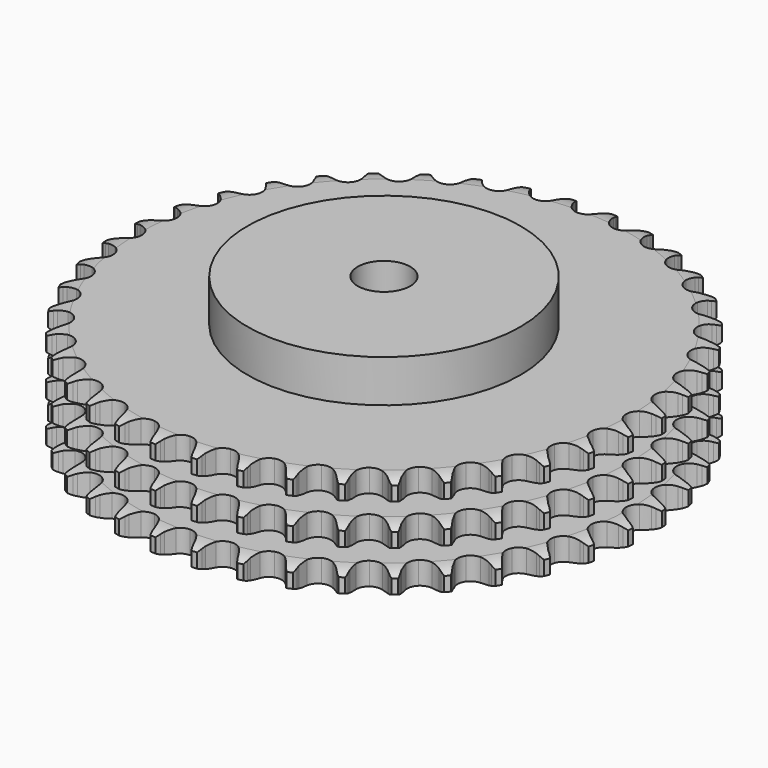
from build123d import *

# Parameters (mm, degrees)
PAD_DEPTH         = 49.8
SKETCH001_R       = 65
PAD001_DEPTH      = 70
SKETCH002_R       = 12.5
POCKET_DEPTH      = 0.001
POCKET_DEPTH_BACK = 70.001


with BuildPart() as part:
    # Sprocket → Pad (new body)
    with BuildSketch(Plane.XY):
        with BuildLine():
            ThreePointArc((-10.000443, 127.067676), (-8.616293, 125.369452), (-7.644652, 123.405845))
            Line((-7.644652, 123.405845), (-7.056217, 121.780312))
            ThreePointArc((-7.056217, 121.780312), (-6.126662, 119.69739), (-4.906159, 117.770471))
            ThreePointArc((-4.906159, 117.770471), (-2.747075, 115.950742), (0, 115.297563))
            ThreePointArc((0, 115.297563), (2.747075, 115.950742), (4.906159, 117.770471))
            ThreePointArc((4.906159, 117.770471), (6.126662, 119.69739), (7.056217, 121.780312))
            Line((7.056217, 121.780312), (7.644652, 123.405845))
            ThreePointArc((7.644652, 123.405845), (8.616293, 125.369452), (10.000443, 127.067676))
            ThreePointArc((10.000443, 127.067676), (11.101891, 125.173831), (11.754394, 123.082401))
            Line((11.754394, 123.082401), (12.081294, 121.38483))
            ThreePointArc((12.081294, 121.38483), (12.673565, 119.182137), (13.577604, 117.088014))
            ThreePointArc((13.577604, 117.088014), (15.425439, 114.952933), (18.036513, 113.878059))
            ThreePointArc((18.036513, 113.878059), (20.851946, 114.093459), (23.269117, 115.553029))
            Line((23.269117, 115.553029), (26.019982, 119.177159))
            ThreePointArc((26.019982, 119.177159), (26.416953, 119.945358), (26.855461, 120.690627))
            ThreePointArc((26.855461, 120.690627), (28.122315, 122.478061), (29.755085, 123.938849))
            ThreePointArc((29.755085, 123.938849), (30.54671, 121.896015), (30.864007, 119.728261))
            Line((30.864007, 119.728261), (30.921325, 118.000451))
            ThreePointArc((30.921325, 118.000451), (31.161726, 115.732225), (31.727042, 113.522461))
            ThreePointArc((31.727042, 113.522461), (33.218127, 111.124602), (35.628906, 109.654499))
            ThreePointArc((35.628906, 109.654499), (38.443373, 109.426816), (41.059112, 110.490288))
            Line((41.059112, 110.490288), (44.343048, 113.639468))
            ThreePointArc((44.343048, 113.639468), (44.855304, 114.33611), (45.404999, 115.003606))
            ThreePointArc((45.404999, 115.003606), (46.935873, 116.570853), (48.777058, 117.758235))
            ThreePointArc((48.777058, 117.758235), (49.239367, 115.616715), (49.213646, 113.426013))
            Line((49.213646, 113.426013), (48.999969, 111.710508))
            ThreePointArc((48.999969, 111.710508), (48.882582, 109.432601), (49.095255, 107.161608))
            ThreePointArc((49.095255, 107.161608), (50.192874, 104.560014), (52.343998, 102.730881))
            ThreePointArc((52.343998, 102.730881), (55.088197, 102.065722), (57.838095, 102.706909))
            Line((57.838095, 102.706909), (61.574241, 105.303597))
            ThreePointArc((61.574241, 105.303597), (62.189169, 105.911527), (62.836516, 106.484814))
            ThreePointArc((62.836516, 106.484814), (64.593713, 107.793285), (66.597978, 108.678023))
            ThreePointArc((66.597978, 108.678023), (66.719588, 106.490547), (66.351482, 104.33084))
            Line((66.351482, 104.33084), (65.872072, 102.669883))
            ThreePointArc((65.872072, 102.669883), (65.399787, 100.438384), (65.25458, 98.162081))
            ThreePointArc((65.25458, 98.162081), (65.931706, 95.420811), (67.770207, 93.277688))
            ThreePointArc((67.770207, 93.277688), (70.376566, 92.191431), (73.192913, 92.394545))
            Line((73.192913, 92.394545), (77.289271, 94.374802))
            ThreePointArc((77.289271, 94.374802), (77.99173, 94.879051), (78.720789, 95.344012))
            ThreePointArc((78.720789, 95.344012), (80.661042, 96.361487), (82.779035, 96.921797))
            ThreePointArc((82.779035, 96.921797), (82.556951, 94.742229), (81.855525, 92.666695))
            Line((81.855525, 92.666695), (81.122186, 91.101184))
            ThreePointArc((81.122186, 91.101184), (80.306632, 88.97104), (79.80712, 86.745478))
            ThreePointArc((79.80712, 86.745478), (80.047081, 83.932031), (81.527689, 81.527689))
            ThreePointArc((81.527689, 81.527689), (83.932031, 80.047081), (86.745478, 79.80712))
            Line((86.745478, 79.80712), (91.101184, 81.122186))
            ThreePointArc((91.101184, 81.122186), (91.873876, 81.510338), (92.666695, 81.855525))
            ThreePointArc((92.666695, 81.855525), (94.742229, 82.556951), (96.921797, 82.779035))
            ThreePointArc((96.921797, 82.779035), (96.361487, 80.661042), (95.344012, 78.720789))
            Line((95.344012, 78.720789), (94.374802, 77.289271))
            ThreePointArc((94.374802, 77.289271), (93.236061, 75.312934), (92.394545, 73.192913))
            ThreePointArc((92.394545, 73.192913), (92.191431, 70.376566), (93.277688, 67.770207))
            ThreePointArc((93.277688, 67.770207), (95.420811, 65.931706), (98.162081, 65.25458))
            Line((98.162081, 65.25458), (102.669883, 65.872072))
            ThreePointArc((102.669883, 65.872072), (103.493782, 66.13457), (104.33084, 66.351482))
            ThreePointArc((104.33084, 66.351482), (106.490547, 66.719588), (108.678023, 66.597978))
            ThreePointArc((108.678023, 66.597978), (107.793285, 64.593713), (106.484814, 62.836516))
            Line((106.484814, 62.836516), (105.303597, 61.574241))
            ThreePointArc((105.303597, 61.574241), (103.869709, 59.800373), (102.706909, 57.838095))
            ThreePointArc((102.706909, 57.838095), (102.065722, 55.088197), (102.730881, 52.343998))
            ThreePointArc((102.730881, 52.343998), (104.560014, 50.192874), (107.161608, 49.095255))
            Line((107.161608, 49.095255), (111.710508, 48.999969))
            ThreePointArc((111.710508, 48.999969), (112.565328, 49.130349), (113.426013, 49.213646))
            ThreePointArc((113.426013, 49.213646), (115.616715, 49.239367), (117.758235, 48.777058))
            ThreePointArc((117.758235, 48.777058), (116.570853, 46.935873), (115.003606, 45.404999))
            Line((115.003606, 45.404999), (113.639468, 44.343048))
            ThreePointArc((113.639468, 44.343048), (111.94574, 42.815329), (110.490288, 41.059112))
            ThreePointArc((110.490288, 41.059112), (109.426816, 38.443373), (109.654499, 35.628906))
            ThreePointArc((109.654499, 35.628906), (111.124602, 33.218127), (113.522461, 31.727042))
            Line((113.522461, 31.727042), (118.000451, 30.921325))
            ThreePointArc((118.000451, 30.921325), (118.865142, 30.916376), (119.728261, 30.864007))
            ThreePointArc((119.728261, 30.864007), (121.896015, 30.54671), (123.938849, 29.755085))
            ThreePointArc((123.938849, 29.755085), (122.478061, 28.122315), (120.690627, 26.855461))
            Line((120.690627, 26.855461), (119.177159, 26.019982))
            ThreePointArc((119.177159, 26.019982), (117.265295, 24.776029), (115.553029, 23.269117))
            ThreePointArc((115.553029, 23.269117), (114.093459, 20.851946), (113.878059, 18.036513))
            ThreePointArc((113.878059, 18.036513), (114.952933, 15.425439), (117.088014, 13.577604))
            Line((117.088014, 13.577604), (121.38483, 12.081294))
            ThreePointArc((121.38483, 12.081294), (122.238102, 11.941139), (123.082401, 11.754394))
            ThreePointArc((123.082401, 11.754394), (125.173831, 11.101891), (127.067676, 10.000443))
            ThreePointArc((127.067676, 10.000443), (125.369452, 8.616293), (123.405845, 7.644652))
            Line((123.405845, 7.644652), (121.780312, 7.056217))
            ThreePointArc((121.780312, 7.056217), (119.69739, 6.126662), (117.770471, 4.906159))
            ThreePointArc((117.770471, 4.906159), (115.950742, 2.747075), (115.297563, 0))
            ThreePointArc((115.297563, 0), (115.950742, -2.747075), (117.770471, -4.906159))
            Line((117.770471, -4.906159), (121.780312, -7.056217))
            ThreePointArc((121.780312, -7.056217), (122.601154, -7.328128), (123.405845, -7.644652))
            ThreePointArc((123.405845, -7.644652), (125.369452, -8.616293), (127.067676, -10.000443))
            ThreePointArc((127.067676, -10.000443), (125.173831, -11.101891), (123.082401, -11.754394))
            Line((123.082401, -11.754394), (121.38483, -12.081294))
            ThreePointArc((121.38483, -12.081294), (119.182137, -12.673565), (117.088014, -13.577604))
            ThreePointArc((117.088014, -13.577604), (114.952933, -15.425439), (113.878059, -18.036513))
            ThreePointArc((113.878059, -18.036513), (114.093459, -20.851946), (115.553029, -23.269117))
            Line((115.553029, -23.269117), (119.177159, -26.019982))
            ThreePointArc((119.177159, -26.019982), (119.945358, -26.416953), (120.690627, -26.855461))
            ThreePointArc((120.690627, -26.855461), (122.478061, -28.122315), (123.938849, -29.755085))
            ThreePointArc((123.938849, -29.755085), (121.896015, -30.54671), (119.728261, -30.864007))
            Line((119.728261, -30.864007), (118.000451, -30.921325))
            ThreePointArc((118.000451, -30.921325), (115.732225, -31.161726), (113.522461, -31.727042))
            ThreePointArc((113.522461, -31.727042), (111.124602, -33.218127), (109.654499, -35.628906))
            ThreePointArc((109.654499, -35.628906), (109.426816, -38.443373), (110.490288, -41.059112))
            Line((110.490288, -41.059112), (113.639468, -44.343048))
            ThreePointArc((113.639468, -44.343048), (114.33611, -44.855304), (115.003606, -45.404999))
            ThreePointArc((115.003606, -45.404999), (116.570853, -46.935873), (117.758235, -48.777058))
            ThreePointArc((117.758235, -48.777058), (115.616715, -49.239367), (113.426013, -49.213646))
            Line((113.426013, -49.213646), (111.710508, -48.999969))
            ThreePointArc((111.710508, -48.999969), (109.432601, -48.882582), (107.161608, -49.095255))
            ThreePointArc((107.161608, -49.095255), (104.560014, -50.192874), (102.730881, -52.343998))
            ThreePointArc((102.730881, -52.343998), (102.065722, -55.088197), (102.706909, -57.838095))
            Line((102.706909, -57.838095), (105.303597, -61.574241))
            ThreePointArc((105.303597, -61.574241), (105.911527, -62.189169), (106.484814, -62.836516))
            ThreePointArc((106.484814, -62.836516), (107.793285, -64.593713), (108.678023, -66.597978))
            ThreePointArc((108.678023, -66.597978), (106.490547, -66.719588), (104.33084, -66.351482))
            Line((104.33084, -66.351482), (102.669883, -65.872072))
            ThreePointArc((102.669883, -65.872072), (100.438384, -65.399787), (98.162081, -65.25458))
            ThreePointArc((98.162081, -65.25458), (95.420811, -65.931706), (93.277688, -67.770207))
            ThreePointArc((93.277688, -67.770207), (92.191431, -70.376566), (92.394545, -73.192913))
            Line((92.394545, -73.192913), (94.374802, -77.289271))
            ThreePointArc((94.374802, -77.289271), (94.879051, -77.99173), (95.344012, -78.720789))
            ThreePointArc((95.344012, -78.720789), (96.361487, -80.661042), (96.921797, -82.779035))
            ThreePointArc((96.921797, -82.779035), (94.742229, -82.556951), (92.666695, -81.855525))
            Line((92.666695, -81.855525), (91.101184, -81.122186))
            ThreePointArc((91.101184, -81.122186), (88.97104, -80.306632), (86.745478, -79.80712))
            ThreePointArc((86.745478, -79.80712), (83.932031, -80.047081), (81.527689, -81.527689))
            ThreePointArc((81.527689, -81.527689), (80.047081, -83.932031), (79.80712, -86.745478))
            Line((79.80712, -86.745478), (81.122186, -91.101184))
            ThreePointArc((81.122186, -91.101184), (81.510338, -91.873876), (81.855525, -92.666695))
            ThreePointArc((81.855525, -92.666695), (82.556951, -94.742229), (82.779035, -96.921797))
            ThreePointArc((82.779035, -96.921797), (80.661042, -96.361487), (78.720789, -95.344012))
            Line((78.720789, -95.344012), (77.289271, -94.374802))
            ThreePointArc((77.289271, -94.374802), (75.312934, -93.236061), (73.192913, -92.394545))
            ThreePointArc((73.192913, -92.394545), (70.376566, -92.191431), (67.770207, -93.277688))
            ThreePointArc((67.770207, -93.277688), (65.931706, -95.420811), (65.25458, -98.162081))
            Line((65.25458, -98.162081), (65.872072, -102.669883))
            ThreePointArc((65.872072, -102.669883), (66.13457, -103.493782), (66.351482, -104.33084))
            ThreePointArc((66.351482, -104.33084), (66.719588, -106.490547), (66.597978, -108.678023))
            ThreePointArc((66.597978, -108.678023), (64.593713, -107.793285), (62.836516, -106.484814))
            Line((62.836516, -106.484814), (61.574241, -105.303597))
            ThreePointArc((61.574241, -105.303597), (59.800373, -103.869709), (57.838095, -102.706909))
            ThreePointArc((57.838095, -102.706909), (55.088197, -102.065722), (52.343998, -102.730881))
            ThreePointArc((52.343998, -102.730881), (50.192874, -104.560014), (49.095255, -107.161608))
            Line((49.095255, -107.161608), (48.999969, -111.710508))
            ThreePointArc((48.999969, -111.710508), (49.130349, -112.565328), (49.213646, -113.426013))
            ThreePointArc((49.213646, -113.426013), (49.239367, -115.616715), (48.777058, -117.758235))
            ThreePointArc((48.777058, -117.758235), (46.935873, -116.570853), (45.404999, -115.003606))
            Line((45.404999, -115.003606), (44.343048, -113.639468))
            ThreePointArc((44.343048, -113.639468), (42.815329, -111.94574), (41.059112, -110.490288))
            ThreePointArc((41.059112, -110.490288), (38.443373, -109.426816), (35.628906, -109.654499))
            ThreePointArc((35.628906, -109.654499), (33.218127, -111.124602), (31.727042, -113.522461))
            Line((31.727042, -113.522461), (30.921325, -118.000451))
            ThreePointArc((30.921325, -118.000451), (30.916376, -118.865142), (30.864007, -119.728261))
            ThreePointArc((30.864007, -119.728261), (30.54671, -121.896015), (29.755085, -123.938849))
            ThreePointArc((29.755085, -123.938849), (28.122315, -122.478061), (26.855461, -120.690627))
            Line((26.855461, -120.690627), (26.019982, -119.177159))
            ThreePointArc((26.019982, -119.177159), (24.776029, -117.265295), (23.269117, -115.553029))
            ThreePointArc((23.269117, -115.553029), (20.851946, -114.093459), (18.036513, -113.878059))
            ThreePointArc((18.036513, -113.878059), (15.425439, -114.952933), (13.577604, -117.088014))
            Line((13.577604, -117.088014), (12.081294, -121.38483))
            ThreePointArc((12.081294, -121.38483), (11.941139, -122.238102), (11.754394, -123.082401))
            ThreePointArc((11.754394, -123.082401), (11.101891, -125.173831), (10.000443, -127.067676))
            ThreePointArc((10.000443, -127.067676), (8.616293, -125.369452), (7.644652, -123.405845))
            Line((7.644652, -123.405845), (7.056217, -121.780312))
            ThreePointArc((7.056217, -121.780312), (6.126662, -119.69739), (4.906159, -117.770471))
            ThreePointArc((4.906159, -117.770471), (2.747075, -115.950742), (0, -115.297563))
            ThreePointArc((0, -115.297563), (-2.747075, -115.950742), (-4.906159, -117.770471))
            Line((-4.906159, -117.770471), (-7.056217, -121.780312))
            ThreePointArc((-7.056217, -121.780312), (-7.328128, -122.601154), (-7.644652, -123.405845))
            ThreePointArc((-7.644652, -123.405845), (-8.616293, -125.369452), (-10.000443, -127.067676))
            ThreePointArc((-10.000443, -127.067676), (-11.101891, -125.173831), (-11.754394, -123.082401))
            Line((-11.754394, -123.082401), (-12.081294, -121.38483))
            ThreePointArc((-12.081294, -121.38483), (-12.673565, -119.182137), (-13.577604, -117.088014))
            ThreePointArc((-13.577604, -117.088014), (-15.425439, -114.952933), (-18.036513, -113.878059))
            ThreePointArc((-18.036513, -113.878059), (-20.851946, -114.093459), (-23.269117, -115.553029))
            Line((-23.269117, -115.553029), (-26.019982, -119.177159))
            ThreePointArc((-26.019982, -119.177159), (-26.416953, -119.945358), (-26.855461, -120.690627))
            ThreePointArc((-26.855461, -120.690627), (-28.122315, -122.478061), (-29.755085, -123.938849))
            ThreePointArc((-29.755085, -123.938849), (-30.54671, -121.896015), (-30.864007, -119.728261))
            Line((-30.864007, -119.728261), (-30.921325, -118.000451))
            ThreePointArc((-30.921325, -118.000451), (-31.161726, -115.732225), (-31.727042, -113.522461))
            ThreePointArc((-31.727042, -113.522461), (-33.218127, -111.124602), (-35.628906, -109.654499))
            ThreePointArc((-35.628906, -109.654499), (-38.443373, -109.426816), (-41.059112, -110.490288))
            Line((-41.059112, -110.490288), (-44.343048, -113.639468))
            ThreePointArc((-44.343048, -113.639468), (-44.855304, -114.33611), (-45.404999, -115.003606))
            ThreePointArc((-45.404999, -115.003606), (-46.935873, -116.570853), (-48.777058, -117.758235))
            ThreePointArc((-48.777058, -117.758235), (-49.239367, -115.616715), (-49.213646, -113.426013))
            Line((-49.213646, -113.426013), (-48.999969, -111.710508))
            ThreePointArc((-48.999969, -111.710508), (-48.882582, -109.432601), (-49.095255, -107.161608))
            ThreePointArc((-49.095255, -107.161608), (-50.192874, -104.560014), (-52.343998, -102.730881))
            ThreePointArc((-52.343998, -102.730881), (-55.088197, -102.065722), (-57.838095, -102.706909))
            Line((-57.838095, -102.706909), (-61.574241, -105.303597))
            ThreePointArc((-61.574241, -105.303597), (-62.189169, -105.911527), (-62.836516, -106.484814))
            ThreePointArc((-62.836516, -106.484814), (-64.593713, -107.793285), (-66.597978, -108.678023))
            ThreePointArc((-66.597978, -108.678023), (-66.719588, -106.490547), (-66.351482, -104.33084))
            Line((-66.351482, -104.33084), (-65.872072, -102.669883))
            ThreePointArc((-65.872072, -102.669883), (-65.399787, -100.438384), (-65.25458, -98.162081))
            ThreePointArc((-65.25458, -98.162081), (-65.931706, -95.420811), (-67.770207, -93.277688))
            ThreePointArc((-67.770207, -93.277688), (-70.376566, -92.191431), (-73.192913, -92.394545))
            Line((-73.192913, -92.394545), (-77.289271, -94.374802))
            ThreePointArc((-77.289271, -94.374802), (-77.99173, -94.879051), (-78.720789, -95.344012))
            ThreePointArc((-78.720789, -95.344012), (-80.661042, -96.361487), (-82.779035, -96.921797))
            ThreePointArc((-82.779035, -96.921797), (-82.556951, -94.742229), (-81.855525, -92.666695))
            Line((-81.855525, -92.666695), (-81.122186, -91.101184))
            ThreePointArc((-81.122186, -91.101184), (-80.306632, -88.97104), (-79.80712, -86.745478))
            ThreePointArc((-79.80712, -86.745478), (-80.047081, -83.932031), (-81.527689, -81.527689))
            ThreePointArc((-81.527689, -81.527689), (-83.932031, -80.047081), (-86.745478, -79.80712))
            Line((-86.745478, -79.80712), (-91.101184, -81.122186))
            ThreePointArc((-91.101184, -81.122186), (-91.873876, -81.510338), (-92.666695, -81.855525))
            ThreePointArc((-92.666695, -81.855525), (-94.742229, -82.556951), (-96.921797, -82.779035))
            ThreePointArc((-96.921797, -82.779035), (-96.361487, -80.661042), (-95.344012, -78.720789))
            Line((-95.344012, -78.720789), (-94.374802, -77.289271))
            ThreePointArc((-94.374802, -77.289271), (-93.236061, -75.312934), (-92.394545, -73.192913))
            ThreePointArc((-92.394545, -73.192913), (-92.191431, -70.376566), (-93.277688, -67.770207))
            ThreePointArc((-93.277688, -67.770207), (-95.420811, -65.931706), (-98.162081, -65.25458))
            Line((-98.162081, -65.25458), (-102.669883, -65.872072))
            ThreePointArc((-102.669883, -65.872072), (-103.493782, -66.13457), (-104.33084, -66.351482))
            ThreePointArc((-104.33084, -66.351482), (-106.490547, -66.719588), (-108.678023, -66.597978))
            ThreePointArc((-108.678023, -66.597978), (-107.793285, -64.593713), (-106.484814, -62.836516))
            Line((-106.484814, -62.836516), (-105.303597, -61.574241))
            ThreePointArc((-105.303597, -61.574241), (-103.869709, -59.800373), (-102.706909, -57.838095))
            ThreePointArc((-102.706909, -57.838095), (-102.065722, -55.088197), (-102.730881, -52.343998))
            ThreePointArc((-102.730881, -52.343998), (-104.560014, -50.192874), (-107.161608, -49.095255))
            Line((-107.161608, -49.095255), (-111.710508, -48.999969))
            ThreePointArc((-111.710508, -48.999969), (-112.565328, -49.130349), (-113.426013, -49.213646))
            ThreePointArc((-113.426013, -49.213646), (-115.616715, -49.239367), (-117.758235, -48.777058))
            ThreePointArc((-117.758235, -48.777058), (-116.570853, -46.935873), (-115.003606, -45.404999))
            Line((-115.003606, -45.404999), (-113.639468, -44.343048))
            ThreePointArc((-113.639468, -44.343048), (-111.94574, -42.815329), (-110.490288, -41.059112))
            ThreePointArc((-110.490288, -41.059112), (-109.426816, -38.443373), (-109.654499, -35.628906))
            ThreePointArc((-109.654499, -35.628906), (-111.124602, -33.218127), (-113.522461, -31.727042))
            Line((-113.522461, -31.727042), (-118.000451, -30.921325))
            ThreePointArc((-118.000451, -30.921325), (-118.865142, -30.916376), (-119.728261, -30.864007))
            ThreePointArc((-119.728261, -30.864007), (-121.896015, -30.54671), (-123.938849, -29.755085))
            ThreePointArc((-123.938849, -29.755085), (-122.478061, -28.122315), (-120.690627, -26.855461))
            Line((-120.690627, -26.855461), (-119.177159, -26.019982))
            ThreePointArc((-119.177159, -26.019982), (-117.265295, -24.776029), (-115.553029, -23.269117))
            ThreePointArc((-115.553029, -23.269117), (-114.093459, -20.851946), (-113.878059, -18.036513))
            ThreePointArc((-113.878059, -18.036513), (-114.952933, -15.425439), (-117.088014, -13.577604))
            Line((-117.088014, -13.577604), (-121.38483, -12.081294))
            ThreePointArc((-121.38483, -12.081294), (-122.238102, -11.941139), (-123.082401, -11.754394))
            ThreePointArc((-123.082401, -11.754394), (-125.173831, -11.101891), (-127.067676, -10.000443))
            ThreePointArc((-127.067676, -10.000443), (-125.369452, -8.616293), (-123.405845, -7.644652))
            Line((-123.405845, -7.644652), (-121.780312, -7.056217))
            ThreePointArc((-121.780312, -7.056217), (-119.69739, -6.126662), (-117.770471, -4.906159))
            ThreePointArc((-117.770471, -4.906159), (-115.950742, -2.747075), (-115.297563, 0))
            ThreePointArc((-115.297563, 0), (-115.950742, 2.747075), (-117.770471, 4.906159))
            Line((-117.770471, 4.906159), (-121.780312, 7.056217))
            ThreePointArc((-121.780312, 7.056217), (-122.601154, 7.328128), (-123.405845, 7.644652))
            ThreePointArc((-123.405845, 7.644652), (-125.369452, 8.616293), (-127.067676, 10.000443))
            ThreePointArc((-127.067676, 10.000443), (-125.173831, 11.101891), (-123.082401, 11.754394))
            Line((-123.082401, 11.754394), (-121.38483, 12.081294))
            ThreePointArc((-121.38483, 12.081294), (-119.182137, 12.673565), (-117.088014, 13.577604))
            ThreePointArc((-117.088014, 13.577604), (-114.952933, 15.425439), (-113.878059, 18.036513))
            ThreePointArc((-113.878059, 18.036513), (-114.093459, 20.851946), (-115.553029, 23.269117))
            Line((-115.553029, 23.269117), (-119.177159, 26.019982))
            ThreePointArc((-119.177159, 26.019982), (-119.945358, 26.416953), (-120.690627, 26.855461))
            ThreePointArc((-120.690627, 26.855461), (-122.478061, 28.122315), (-123.938849, 29.755085))
            ThreePointArc((-123.938849, 29.755085), (-121.896015, 30.54671), (-119.728261, 30.864007))
            Line((-119.728261, 30.864007), (-118.000451, 30.921325))
            ThreePointArc((-118.000451, 30.921325), (-115.732225, 31.161726), (-113.522461, 31.727042))
            ThreePointArc((-113.522461, 31.727042), (-111.124602, 33.218127), (-109.654499, 35.628906))
            ThreePointArc((-109.654499, 35.628906), (-109.426816, 38.443373), (-110.490288, 41.059112))
            Line((-110.490288, 41.059112), (-113.639468, 44.343048))
            ThreePointArc((-113.639468, 44.343048), (-114.33611, 44.855304), (-115.003606, 45.404999))
            ThreePointArc((-115.003606, 45.404999), (-116.570853, 46.935873), (-117.758235, 48.777058))
            ThreePointArc((-117.758235, 48.777058), (-115.616715, 49.239367), (-113.426013, 49.213646))
            Line((-113.426013, 49.213646), (-111.710508, 48.999969))
            ThreePointArc((-111.710508, 48.999969), (-109.432601, 48.882582), (-107.161608, 49.095255))
            ThreePointArc((-107.161608, 49.095255), (-104.560014, 50.192874), (-102.730881, 52.343998))
            ThreePointArc((-102.730881, 52.343998), (-102.065722, 55.088197), (-102.706909, 57.838095))
            Line((-102.706909, 57.838095), (-105.303597, 61.574241))
            ThreePointArc((-105.303597, 61.574241), (-105.911527, 62.189169), (-106.484814, 62.836516))
            ThreePointArc((-106.484814, 62.836516), (-107.793285, 64.593713), (-108.678023, 66.597978))
            ThreePointArc((-108.678023, 66.597978), (-106.490547, 66.719588), (-104.33084, 66.351482))
            Line((-104.33084, 66.351482), (-102.669883, 65.872072))
            ThreePointArc((-102.669883, 65.872072), (-100.438384, 65.399787), (-98.162081, 65.25458))
            ThreePointArc((-98.162081, 65.25458), (-95.420811, 65.931706), (-93.277688, 67.770207))
            ThreePointArc((-93.277688, 67.770207), (-92.191431, 70.376566), (-92.394545, 73.192913))
            Line((-92.394545, 73.192913), (-94.374802, 77.289271))
            ThreePointArc((-94.374802, 77.289271), (-94.879051, 77.99173), (-95.344012, 78.720789))
            ThreePointArc((-95.344012, 78.720789), (-96.361487, 80.661042), (-96.921797, 82.779035))
            ThreePointArc((-96.921797, 82.779035), (-94.742229, 82.556951), (-92.666695, 81.855525))
            Line((-92.666695, 81.855525), (-91.101184, 81.122186))
            ThreePointArc((-91.101184, 81.122186), (-88.97104, 80.306632), (-86.745478, 79.80712))
            ThreePointArc((-86.745478, 79.80712), (-83.932031, 80.047081), (-81.527689, 81.527689))
            ThreePointArc((-81.527689, 81.527689), (-80.047081, 83.932031), (-79.80712, 86.745478))
            Line((-79.80712, 86.745478), (-81.122186, 91.101184))
            ThreePointArc((-81.122186, 91.101184), (-81.510338, 91.873876), (-81.855525, 92.666695))
            ThreePointArc((-81.855525, 92.666695), (-82.556951, 94.742229), (-82.779035, 96.921797))
            ThreePointArc((-82.779035, 96.921797), (-80.661042, 96.361487), (-78.720789, 95.344012))
            Line((-78.720789, 95.344012), (-77.289271, 94.374802))
            ThreePointArc((-77.289271, 94.374802), (-75.312934, 93.236061), (-73.192913, 92.394545))
            ThreePointArc((-73.192913, 92.394545), (-70.376566, 92.191431), (-67.770207, 93.277688))
            ThreePointArc((-67.770207, 93.277688), (-65.931706, 95.420811), (-65.25458, 98.162081))
            Line((-65.25458, 98.162081), (-65.872072, 102.669883))
            ThreePointArc((-65.872072, 102.669883), (-66.13457, 103.493782), (-66.351482, 104.33084))
            ThreePointArc((-66.351482, 104.33084), (-66.719588, 106.490547), (-66.597978, 108.678023))
            ThreePointArc((-66.597978, 108.678023), (-64.593713, 107.793285), (-62.836516, 106.484814))
            Line((-62.836516, 106.484814), (-61.574241, 105.303597))
            ThreePointArc((-61.574241, 105.303597), (-59.800373, 103.869709), (-57.838095, 102.706909))
            ThreePointArc((-57.838095, 102.706909), (-55.088197, 102.065722), (-52.343998, 102.730881))
            ThreePointArc((-52.343998, 102.730881), (-50.192874, 104.560014), (-49.095255, 107.161608))
            Line((-49.095255, 107.161608), (-48.999969, 111.710508))
            ThreePointArc((-48.999969, 111.710508), (-49.130349, 112.565328), (-49.213646, 113.426013))
            ThreePointArc((-49.213646, 113.426013), (-49.239367, 115.616715), (-48.777058, 117.758235))
            ThreePointArc((-48.777058, 117.758235), (-46.935873, 116.570853), (-45.404999, 115.003606))
            Line((-45.404999, 115.003606), (-44.343048, 113.639468))
            ThreePointArc((-44.343048, 113.639468), (-42.815329, 111.94574), (-41.059112, 110.490288))
            ThreePointArc((-41.059112, 110.490288), (-38.443373, 109.426816), (-35.628906, 109.654499))
            ThreePointArc((-35.628906, 109.654499), (-33.218127, 111.124602), (-31.727042, 113.522461))
            Line((-31.727042, 113.522461), (-30.921325, 118.000451))
            ThreePointArc((-30.921325, 118.000451), (-30.916376, 118.865142), (-30.864007, 119.728261))
            ThreePointArc((-30.864007, 119.728261), (-30.54671, 121.896015), (-29.755085, 123.938849))
            ThreePointArc((-29.755085, 123.938849), (-28.122315, 122.478061), (-26.855461, 120.690627))
            Line((-26.855461, 120.690627), (-26.019982, 119.177159))
            ThreePointArc((-26.019982, 119.177159), (-24.776029, 117.265295), (-23.269117, 115.553029))
            ThreePointArc((-23.269117, 115.553029), (-20.851946, 114.093459), (-18.036513, 113.878059))
            ThreePointArc((-18.036513, 113.878059), (-15.425439, 114.952933), (-13.577604, 117.088014))
            Line((-13.577604, 117.088014), (-12.081294, 121.38483))
            ThreePointArc((-12.081294, 121.38483), (-11.941139, 122.238102), (-11.754394, 123.082401))
            ThreePointArc((-11.754394, 123.082401), (-11.101891, 125.173831), (-10.000443, 127.067676))
        make_face()
    extrude(amount=PAD_DEPTH)

    # Sketch → Groove (revolve, cut)
    with BuildSketch(Plane.XZ):
        with BuildLine():
            ThreePointArc((117.164719, 0), (121.523618, 0.506758), (125.65, 2))
            Line((125.65, 2), (125.65, 8.8))
            ThreePointArc((125.65, 8.8), (121.523618, 10.293242), (117.164719, 10.8))
            Line((65, 10.8), (117.164719, 10.8))
            Line((65, 10.8), (65, 19.5))
            Line((65, 19.5), (117.164719, 19.5))
            ThreePointArc((117.164719, 19.5), (121.523618, 20.006758), (125.65, 21.5))
            Line((125.65, 28.3), (125.65, 21.5))
            ThreePointArc((125.65, 28.3), (121.523618, 29.793242), (117.164719, 30.3))
            Line((65, 30.3), (117.164719, 30.3))
            Line((65, 39), (65, 30.3))
            Line((117.164719, 39), (65, 39))
            ThreePointArc((117.164719, 39), (121.523618, 39.506758), (125.65, 41))
            Line((125.65, 41), (125.65, 47.8))
            ThreePointArc((125.65, 47.8), (121.523618, 49.293242), (117.164719, 49.8))
            Line((117.164719, 49.8), (135.65, 49.8))
            Line((135.65, 49.8), (135.65, 0))
            Line((117.164719, 0), (135.65, 0))
        make_face()
    revolve(axis=Axis((0, 0, 0), (0, 0, 1)), mode=Mode.SUBTRACT)

    # Sketch001 → Pad001 (join)
    with BuildSketch(Plane.XY):
        Circle(SKETCH001_R)
    extrude(amount=PAD001_DEPTH)

    # Sketch002 → Pocket (cut, two sides)
    with BuildSketch(Plane.XY) as pocket_sk:
        Circle(SKETCH002_R)
    extrude(amount=-POCKET_DEPTH, mode=Mode.SUBTRACT)
    extrude(pocket_sk.sketch, amount=POCKET_DEPTH_BACK, mode=Mode.SUBTRACT)


solid = part.part
